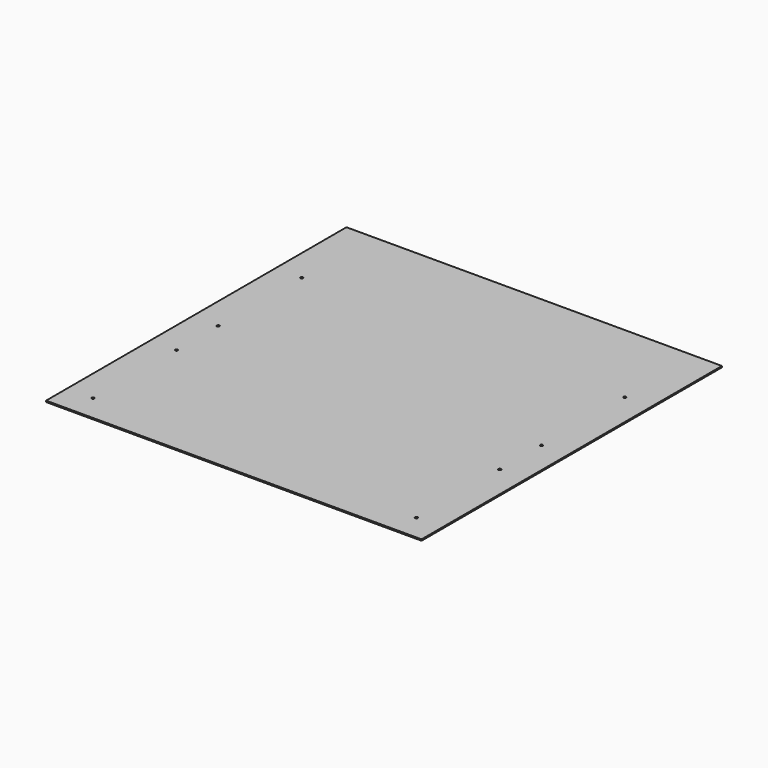
from build123d import *

# Parameters (mm, degrees)
F0_W     = 914.4
F0_H     = 914.4
F0_R     = 3.175
F1_DEPTH = 3.175


with BuildPart() as f1:
    # F0 (on Top) → F1 (new body)
    with BuildSketch(Plane.XY):
        Rectangle(F0_W, F0_H)
        with Locations((-393.7, -393.7)):
            Circle(F0_R, mode=Mode.SUBTRACT)
        with Locations((-393.7, -139.7)):
            Circle(F0_R, mode=Mode.SUBTRACT)
        with Locations((-393.7, -12.7)):
            Circle(F0_R, mode=Mode.SUBTRACT)
        with Locations((393.7, -393.7)):
            Circle(F0_R, mode=Mode.SUBTRACT)
        with Locations((393.7, -139.7)):
            Circle(F0_R, mode=Mode.SUBTRACT)
        with Locations((393.7, -12.7)):
            Circle(F0_R, mode=Mode.SUBTRACT)
        with Locations((-393.7, 241.3)):
            Circle(F0_R, mode=Mode.SUBTRACT)
        with Locations((393.7, 241.3)):
            Circle(F0_R, mode=Mode.SUBTRACT)
    extrude(amount=F1_DEPTH)


solid = f1.part
